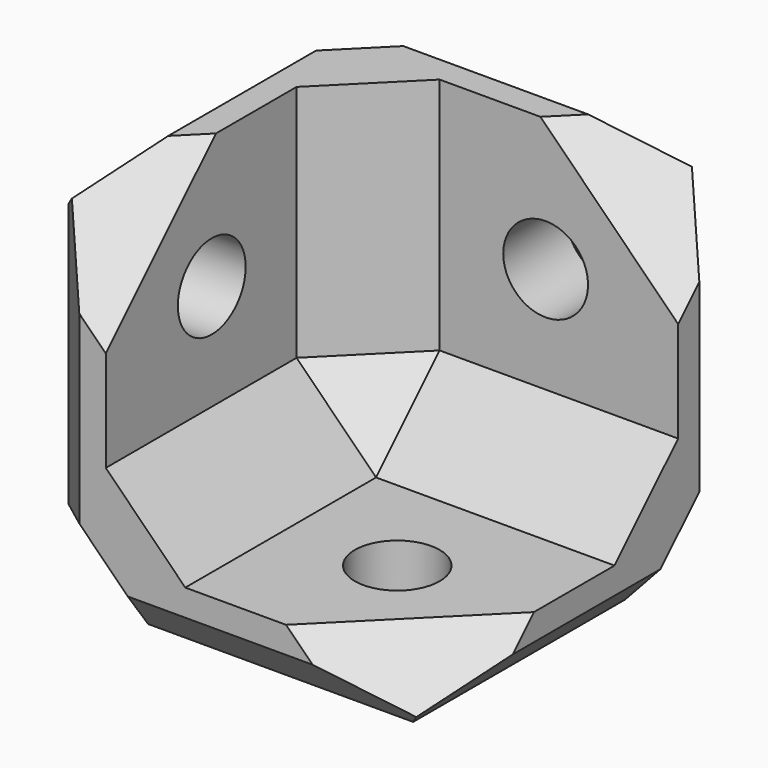
from build123d import *

# Parameters (mm, degrees)
F0_W     = 12
F0_H     = 12
F0_R     = 1.6
F1_DEPTH = 3
F2_DEPTH = 15
F3_R     = 1.6
F4_DEPTH = 25
F5_R     = 1.6
F6_DEPTH = 25
F9_DEPTH = 3
F10_SIZE = 3
F11_SIZE = 2


with BuildPart() as f1:
    # F0 (on Top) → F1 (new body)
    with BuildSketch(Plane.XY):
        Polygon((-40.4932990621, 0.140377609), (-55.4932990621, 0.140377609), (-55.4932990621, -14.859622391), (-52.4932990621, -14.859622391), (-52.4932990621, -2.859622391), (-40.4932990621, -2.859622391), align=None)
        with Locations((-46.4932990621, -8.859622391)):
            Rectangle(F0_W, F0_H)
        with Locations((-45.4932990621, -9.859622391)):
            Circle(F0_R, mode=Mode.SUBTRACT)
    extrude(amount=F1_DEPTH)

    # F0 (on Top) → F2 (join)
    with BuildSketch(Plane.XY):
        Polygon((-40.4932990621, 0.140377609), (-55.4932990621, 0.140377609), (-55.4932990621, -14.859622391), (-52.4932990621, -14.859622391), (-52.4932990621, -2.859622391), (-40.4932990621, -2.859622391), align=None)
    extrude(amount=F2_DEPTH)

    # F3 (on face) → F4 (cut)
    with BuildSketch(Plane(origin=(0, 0.140377609, 0), x_dir=(-1, 0, 0), z_dir=(0, 1, 0))):
        with Locations((45.4932990621, 10)):
            Circle(F3_R)
    extrude(amount=-F4_DEPTH, mode=Mode.SUBTRACT)

    # F5 (on face) → F6 (cut)
    with BuildSketch(Plane(origin=(-55.4932990621, 0, 0), x_dir=(0, -1, 0), z_dir=(-1, 0, 0))):
        with Locations((9.859622391, 10)):
            Circle(F5_R)
    extrude(amount=-F6_DEPTH, mode=Mode.SUBTRACT)

    # F8 (on 3pt) → F9 (cut)
    with BuildSketch(Plane(origin=(-7.5445588904, 7.5445588904, -7.5445588904), x_dir=(0.4082482905, 0.8164965809, 0.4082482905), z_dir=(0.5773502692, -0.5773502692, 0.5773502692))):
        Polygon((-13.727562502, 49.4428761303), (-30.1936492324, 50.4539981484), (-37.5646241009, 38.8832576573), (-31.7441225052, 25.3719072789), (-16.306232661, 24.6546380222), (-6.8639284, 39.3281951547), align=None)
    extrude(amount=-F9_DEPTH, mode=Mode.SUBTRACT)

    # F10
    f10_edges = [f1.edges().sort_by_distance(p)[0] for p in [
        (-55.493299, -7.359622, 0),
        (-47.993299, 0.140378, 0),
        (-55.493299, 0.140378, 7.5),
        (-52.493299, -8.859622, 3),
        (-46.493299, -2.859622, 3),
        (-52.493299, -2.859622, 9),
    ]]
    chamfer(f10_edges, length=F10_SIZE)

    # F11 (call 1 of 3: OpenCascade refuses the feature's edges together)
    f11_edges = [f1.edges().sort_by_distance(p)[0] for p in [
        (-40.493299, 0.140378, 7.901924),
        (-40.493299, -7.761546, 0),
        (-40.493299, -1.359622, 1.5),
    ]]
    chamfer(f11_edges, length=F11_SIZE)

    # F11#2 (call 2 of 3)
    f11_2_edges = [f1.edges().sort_by_distance(p)[0] for p in [
        (-47.591375, -14.859622, 0),
        (-55.493299, -14.859622, 7.901924),
        (-53.993299, -14.859622, 1.5),
    ]]
    chamfer(f11_2_edges, length=F11_SIZE)

    # F11#3 (call 3 of 3)
    f11_3_edges = [f1.edges().sort_by_distance(p)[0] for p in [
        (-53.993299, -1.359622, 15),
        (-55.493299, -7.761546, 15),
        (-47.591375, 0.140378, 15),
    ]]
    chamfer(f11_3_edges, length=F11_SIZE)


solid = f1.part
